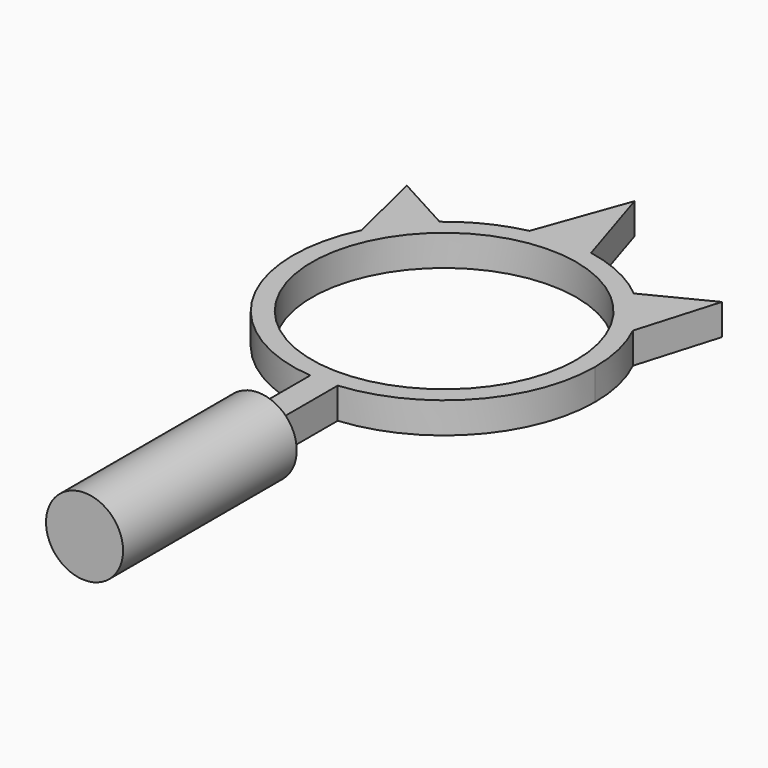
from build123d import *

# Parameters (mm, degrees)
F0_R     = 54.2373260285
F1_DEPTH = 12.7
F3_START = 54.6908248216
F2_R     = 15.7906260278
F3_DEPTH = 89.0027470887


with BuildPart() as f1:
    # F0 (on Top) → F1 (new body)
    with BuildSketch(Plane.XY):
        with BuildLine():
            ThreePointArc((5.5742384489, -21.0680376267), (45.7140278431, -1.1655540145), (61.9223292112, 40.6028851867))
            ThreePointArc((61.9223292112, 40.6028851867), (60.33472157, 54.5347274197), (55.653307019, 67.7521811772))
            ThreePointArc((55.653307019, 67.7521811772), (48.7942433887, 78.7276365572), (39.8035687607, 88.0375852368))
            ThreePointArc((39.8035687607, 88.0375852368), (26.5437780286, 96.5475248129), (11.5655175366, 101.4355545268))
            ThreePointArc((11.5655175366, 101.4355545268), (-0.9231515567, 102.5183327433), (-13.3739883144, 101.0637096229))
            ThreePointArc((-13.3739883144, 101.0637096229), (-27.3748629814, 96.1455870627), (-39.8035687607, 88.0375852368))
            ThreePointArc((-39.8035687607, 88.0375852368), (-48.7942433887, 78.7276365572), (-55.653307019, 67.7521811772))
            ThreePointArc((-55.653307019, 67.7521811772), (-53.9394187779, 10.190487109), (-5.5742384489, -21.0680376267))
            Line((-5.5742384489, -21.0680376267), (5.5742384489, -21.0680376267))
        make_face()
        with Locations((0, 40.6028851867)):
            Circle(F0_R, mode=Mode.SUBTRACT)
        with BuildLine():
            ThreePointArc((-13.3739883144, 101.0637096229), (-0.9231515567, 102.5183327433), (11.5655175366, 101.4355545268))
            Line((11.5655175366, 101.4355545268), (0, 138.1439715624))
            Line((0, 138.1439715624), (-13.3739883144, 101.0637096229))
        make_face()
        with BuildLine():
            ThreePointArc((5.5742384489, -21.0680376267), (45.7140278431, -1.1655540145), (61.9223292112, 40.6028851867))
            ThreePointArc((61.9223292112, 40.6028851867), (60.33472157, 54.5347274197), (55.653307019, 67.7521811772))
            ThreePointArc((55.653307019, 67.7521811772), (48.7942433887, 78.7276365572), (39.8035687607, 88.0375852368))
            ThreePointArc((39.8035687607, 88.0375852368), (26.5437780286, 96.5475248129), (11.5655175366, 101.4355545268))
            ThreePointArc((11.5655175366, 101.4355545268), (-0.9231515567, 102.5183327433), (-13.3739883144, 101.0637096229))
            ThreePointArc((-13.3739883144, 101.0637096229), (-27.3748629814, 96.1455870627), (-39.8035687607, 88.0375852368))
            ThreePointArc((-39.8035687607, 88.0375852368), (-48.7942433887, 78.7276365572), (-55.653307019, 67.7521811772))
            ThreePointArc((-55.653307019, 67.7521811772), (-53.9394187779, 10.190487109), (-5.5742384489, -21.0680376267))
            Line((-5.5742384489, -21.0680376267), (5.5742384489, -21.0680376267))
        make_face()
        with Locations((0, 40.6028851867)):
            Circle(F0_R, mode=Mode.SUBTRACT)
        with BuildLine():
            ThreePointArc((39.8035687607, 88.0375852368), (48.7942433887, 78.7276365572), (55.653307019, 67.7521811772))
            Line((55.653307019, 67.7521811772), (65.5085667968, 101.0637096229))
            Line((65.5085667968, 101.0637096229), (39.8035687607, 88.0375852368))
        make_face()
        with BuildLine():
            Line((5.6826770306, -21.0680376267), (5.5742384489, -21.0680376267))
            ThreePointArc((5.5742384489, -21.0680376267), (0, -21.3194440245), (-5.5742384489, -21.0680376267))
            Line((-5.5742384489, -21.0680376267), (-5.5742384489, -58.2595206797))
            Line((-5.5742384489, -58.2595206797), (5.6826770306, -58.2595206797))
            Line((5.6826770306, -58.2595206797), (5.6826770306, -21.0680376267))
        make_face()
        with BuildLine():
            ThreePointArc((-5.5742384489, -21.0680376267), (0, -21.3194440245), (5.5742384489, -21.0680376267))
            Line((5.5742384489, -21.0680376267), (-5.5742384489, -21.0680376267))
        make_face()
        with BuildLine():
            ThreePointArc((-13.3739883144, 101.0637096229), (-0.9231515567, 102.5183327433), (11.5655175366, 101.4355545268))
            Line((11.5655175366, 101.4355545268), (0, 138.1439715624))
            Line((0, 138.1439715624), (-13.3739883144, 101.0637096229))
        make_face()
        with BuildLine():
            Line((-63.6594295502, 101.0637096229), (-55.653307019, 67.7521811772))
            ThreePointArc((-55.653307019, 67.7521811772), (-48.7942433887, 78.7276365572), (-39.8035687607, 88.0375852368))
            Line((-39.8035687607, 88.0375852368), (-63.6594295502, 101.0637096229))
        make_face()
        Polygon((5.6826770306, -58.2595206797), (-5.5742384489, -58.2595206797), (-13.3375748992, -58.2595206797), (-13.3375748992, -143.073156476), (13.1347030401, -143.073156476), (13.1347030401, -58.2595206797), align=None)
        with BuildLine():
            Line((-63.6594295502, 101.0637096229), (-55.653307019, 67.7521811772))
            ThreePointArc((-55.653307019, 67.7521811772), (-48.7942433887, 78.7276365572), (-39.8035687607, 88.0375852368))
            Line((-39.8035687607, 88.0375852368), (-63.6594295502, 101.0637096229))
        make_face()
        with BuildLine():
            ThreePointArc((39.8035687607, 88.0375852368), (48.7942433887, 78.7276365572), (55.653307019, 67.7521811772))
            Line((55.653307019, 67.7521811772), (65.5085667968, 101.0637096229))
            Line((65.5085667968, 101.0637096229), (39.8035687607, 88.0375852368))
        make_face()
    extrude(amount=F1_DEPTH)

    # F2 (on Front) → F3 (join)
    with BuildSketch(Plane.XZ.offset(F3_START)):
        with Locations((0, 6.2494464219)):
            Circle(F2_R)
    extrude(amount=F3_DEPTH)


solid = f1.part
